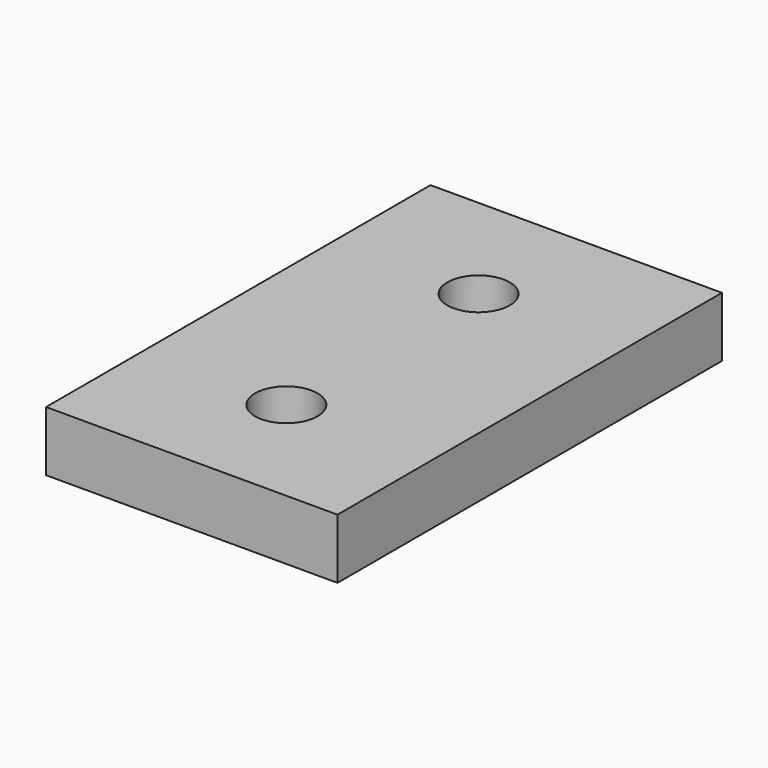
from build123d import *

# Parameters (mm, degrees)
SKETCH_W  = 24.26
SKETCH_H  = 40
SKETCH_R  = 2.6
PAD_DEPTH = 5


with BuildPart() as part:
    # Sketch → Pad (new body)
    with BuildSketch(Plane.XY):
        with Locations((12.13, 10)):
            Rectangle(SKETCH_W, SKETCH_H)
        with Locations((12, 20)):
            Circle(SKETCH_R, mode=Mode.SUBTRACT)
        with Locations((12, 0)):
            Circle(SKETCH_R, mode=Mode.SUBTRACT)
    extrude(amount=PAD_DEPTH)


solid = part.part
